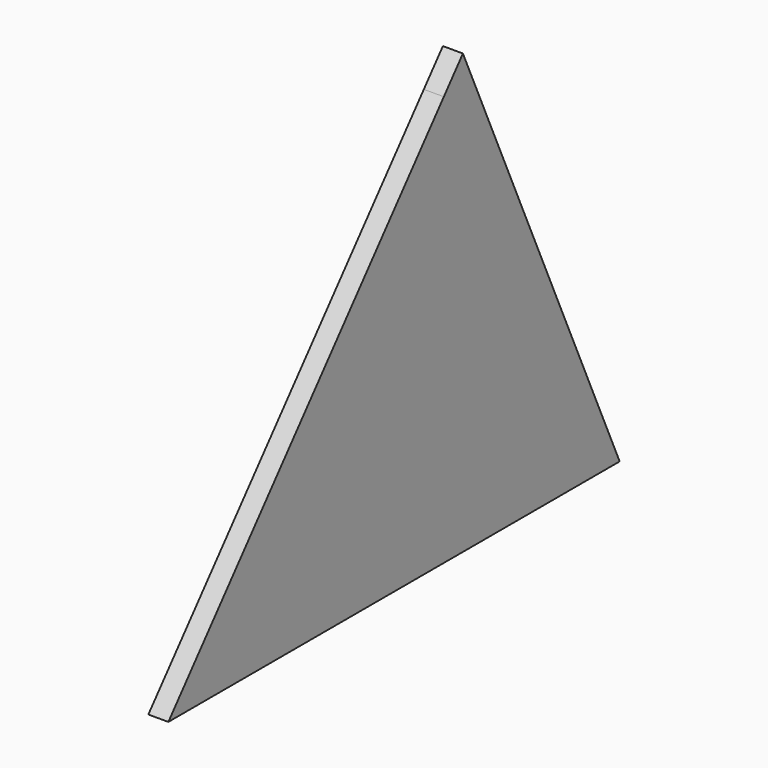
from build123d import *

# Parameters (mm, degrees)
F1_DEPTH = 57
F2_DEPTH = 12


with BuildPart() as f1:
    # F0 (on Right) → F1 (new body)
    with BuildSketch(Plane.YZ):
        Polygon((1107.558378, 1620.736191), (1544.042206, 643.137381), (1586.458342, 548.137381), (1690.497414, 548.137381), (1132.390367, 1798.137381), (1064.487016, 1717.203709), align=None)
        Polygon((207.647976, 548.137381), (287.352976, 643.137381), (1107.558378, 1620.736191), (1064.487016, 1717.203709), (83.640367, 548.137381), align=None)
        Polygon((1586.458342, 548.137381), (1544.042206, 643.137381), (287.352976, 643.137381), (207.647976, 548.137381), align=None)
    extrude(amount=-F1_DEPTH)

    # F0 (on Right) → F2 (join)
    with BuildSketch(Plane.YZ):
        Polygon((287.352976, 643.137381), (1544.042206, 643.137381), (1107.558378, 1620.736191), align=None)
    extrude(amount=-F2_DEPTH)


solid = f1.part
